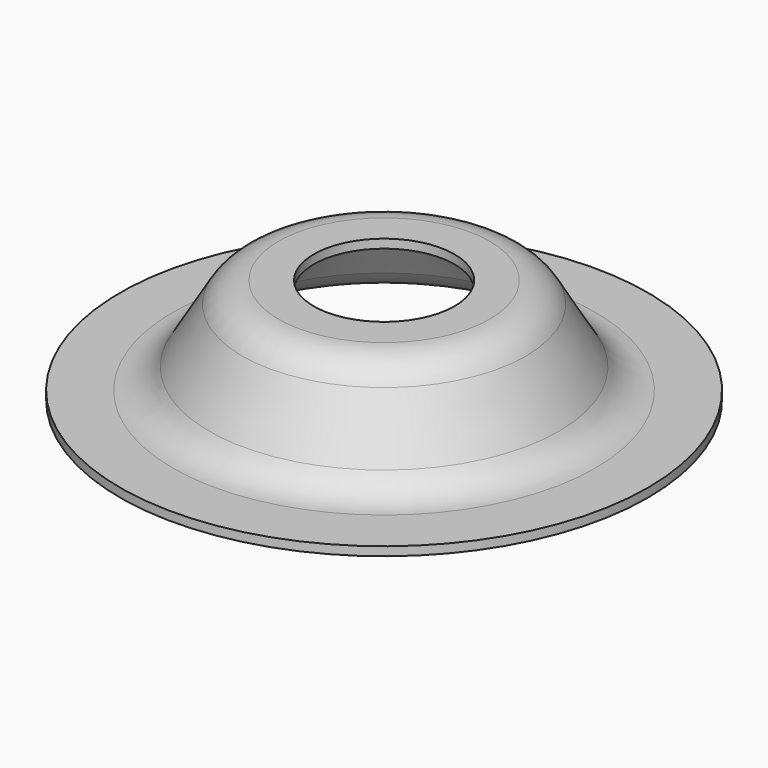
from build123d import *


with BuildPart() as f1:
    # F0 (on Front) → F1 (revolve)
    with BuildSketch(Plane.XZ):
        with BuildLine():
            Line((7.62, 7.62), (5.08, 7.62))
            Line((5.08, 7.62), (5.08, 6.985))
            Line((5.08, 6.985), (7.62, 6.985))
            ThreePointArc((7.62, 6.985), (8.813216, 6.669333), (9.694241, 5.804921))
            Line((9.694241, 5.804921), (12.074054, 1.801173))
            ThreePointArc((12.074054, 1.801173), (13.418775, 0.481808), (15.24, 0))
            Line((15.24, 0), (19.05, 0))
            Line((19.05, 0), (19.05, 0.635))
            Line((19.05, 0.635), (15.24, 0.635))
            ThreePointArc((15.24, 0.635), (13.732779, 1.033738), (12.619906, 2.125626))
            Line((12.619906, 2.125626), (10.240094, 6.129374))
            ThreePointArc((10.240094, 6.129374), (9.127221, 7.221262), (7.62, 7.62))
        make_face()
    revolve(axis=Axis((0, 0, 3.02236), (0, 0, 1)))


solid = f1.part
